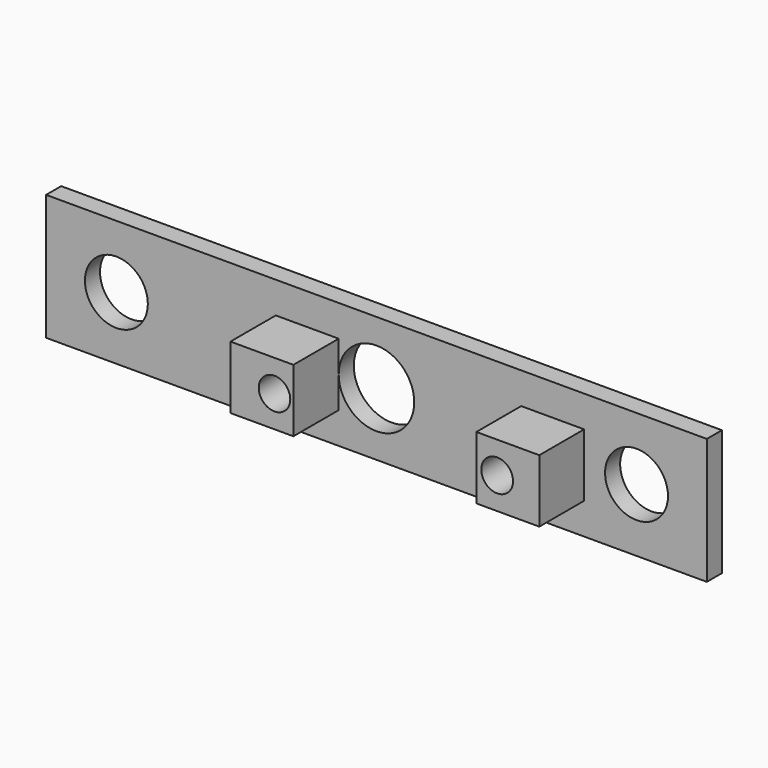
from build123d import *

# Parameters (mm, degrees)
F0_W     = 105
F0_H     = 20
F1_DEPTH = 3
F2_R     = 6
F2_R_2   = 5
F3_DEPTH = 25
F5_W     = 10
F5_H     = 10
F6_DEPTH = 8.9
F4_W     = 10
F4_H     = 10
F7_DEPTH = 9
F8_R     = 2.50333
F8_R_2   = 2.524532
F9_DEPTH = 25


with BuildPart() as f1:
    # F0 (on Front) → F1 (new body)
    with BuildSketch(Plane.XZ):
        Rectangle(F0_W, F0_H)
    extrude(amount=F1_DEPTH)

    # F2 (on face) → F3 (cut)
    with BuildSketch(Plane.XZ.offset(3)):
        Circle(F2_R)
        with Locations((-41.33, 0)):
            Circle(F2_R_2)
        with Locations((41.33, 0)):
            Circle(F2_R_2)
    extrude(amount=-F3_DEPTH, mode=Mode.SUBTRACT)

    # F5 (on face) → F6 (join)
    with BuildSketch(Plane.XZ.offset(3)):
        with Locations((28, 0)):
            Rectangle(F5_W, F5_H)
    extrude(amount=F6_DEPTH)

    # F4 (on face) → F7 (join)
    with BuildSketch(Plane.XZ.offset(3)):
        with Locations((-11, 0)):
            Rectangle(F4_W, F4_H)
    extrude(amount=F7_DEPTH)

    # F8 (on face) → F9 (cut)
    with BuildSketch(Plane.XZ.offset(12)):
        with Locations((-9, 0)):
            Circle(F8_R)
        with Locations((26.3, 0)):
            Circle(F8_R_2)
    extrude(amount=-F9_DEPTH, mode=Mode.SUBTRACT)


solid = f1.part
